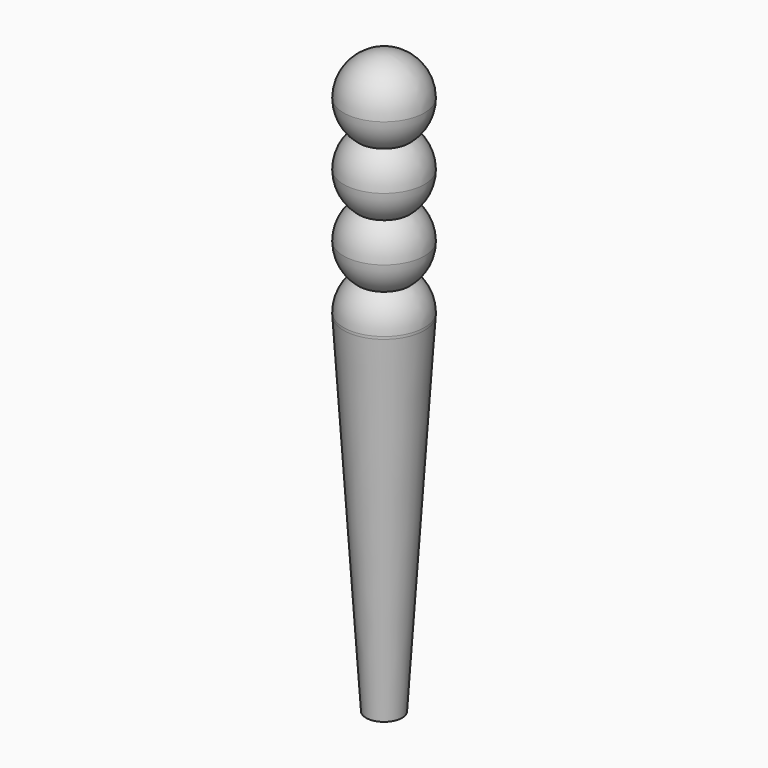
from build123d import *


with BuildPart() as f1:
    # F0 (on Front) → F1 (revolve)
    with BuildSketch(Plane.XZ):
        with BuildLine():
            ThreePointArc((2.25, 30), (1.5909902577, 31.5909902577), (0, 32.25))
            Line((0, 32.25), (0, 30))
            Line((0, 30), (0, 28.75))
            ThreePointArc((0, 28.75), (0.75, 28.6213203436), (1.4142135624, 28.25))
            ThreePointArc((1.4142135624, 28.25), (2.0303300859, 29.0303300859), (2.25, 30))
        make_face()
        with BuildLine():
            Line((0, 28.75), (0, 27.75))
            ThreePointArc((0, 27.75), (0.75, 27.8786796564), (1.4142135624, 28.25))
            ThreePointArc((1.4142135624, 28.25), (0.75, 28.6213203436), (0, 28.75))
        make_face()
        with BuildLine():
            Line((0, 27.75), (0, 25.25))
            ThreePointArc((0, 25.25), (0.75, 25.1213203436), (1.4142135624, 24.75))
            ThreePointArc((1.4142135624, 24.75), (2.0303300859, 25.5303300859), (2.25, 26.5))
            ThreePointArc((2.25, 26.5), (2.0303300859, 27.4696699141), (1.4142135624, 28.25))
            ThreePointArc((1.4142135624, 28.25), (0.75, 27.8786796564), (0, 27.75))
        make_face()
        with BuildLine():
            Line((0, 25.25), (0, 24.25))
            ThreePointArc((0, 24.25), (0.75, 24.3786796564), (1.4142135624, 24.75))
            ThreePointArc((1.4142135624, 24.75), (0.75, 25.1213203436), (0, 25.25))
        make_face()
        with BuildLine():
            Line((0, 24.25), (0, 21.75))
            ThreePointArc((0, 21.75), (0.75, 21.6213203436), (1.4142135624, 21.25))
            ThreePointArc((1.4142135624, 21.25), (2.0303300859, 22.0303300859), (2.25, 23))
            ThreePointArc((2.25, 23), (2.0303300859, 23.9696699141), (1.4142135624, 24.75))
            ThreePointArc((1.4142135624, 24.75), (0.75, 24.3786796564), (0, 24.25))
        make_face()
        with BuildLine():
            Line((0, 21.75), (0, 20.75))
            ThreePointArc((0, 20.75), (0.75, 20.8786796564), (1.4142135624, 21.25))
            ThreePointArc((1.4142135624, 21.25), (0.75, 21.6213203436), (0, 21.75))
        make_face()
        with BuildLine():
            Line((0, 20.75), (0, 17.25))
            ThreePointArc((0, 17.25), (1.5390654723, 17.8587268747), (2.2453571536, 19.3555311361))
            ThreePointArc((2.2453571536, 19.3555311361), (2.2488389889, 19.4277282755), (2.25, 19.5))
            ThreePointArc((2.25, 19.5), (2.0303300859, 20.4696699141), (1.4142135624, 21.25))
            ThreePointArc((1.4142135624, 21.25), (0.75, 20.8786796564), (0, 20.75))
        make_face()
        with BuildLine():
            Line((0, 17.25), (0, 0))
            Line((0, 0), (1, 0))
            Line((1, 0), (2.2453571536, 19.3555311361))
            ThreePointArc((2.2453571536, 19.3555311361), (1.5390654723, 17.8587268747), (0, 17.25))
        make_face()
    revolve(axis=Axis((0, 0, 15), (0, 0, 1)))


solid = f1.part
